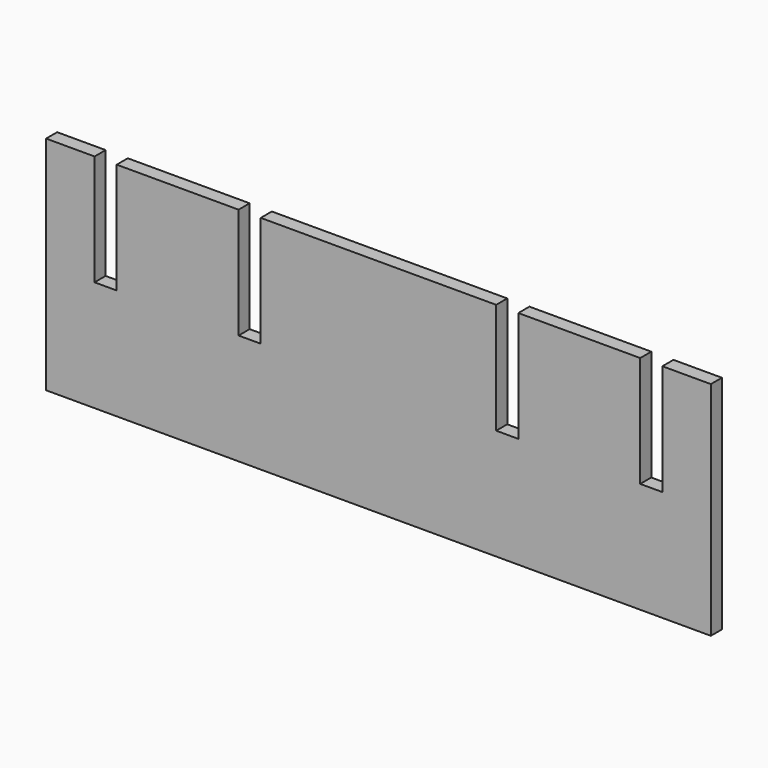
from build123d import *

# Parameters (mm, degrees)
F0_W     = 27.94
F0_H     = 25.4
F1_DEPTH = 3.175


with BuildPart() as f1:
    # F0 (on Front) → F1 (new body)
    with BuildSketch(Plane.XZ):
        with Locations((-46.0375, 12.7)):
            Rectangle(F0_W, F0_H)
        with Locations((46.0375, 12.7)):
            Rectangle(F0_W, F0_H)
        Polygon((-65.0875, 0), (-65.0875, 25.4), (-76.2, 25.4), (-76.2, -25.4), (76.2, -25.4), (76.2, 25.4), (65.0875, 25.4), (65.0875, 0), (60.0075, 0), (32.0675, 0), (26.9875, 0), (26.9875, 25.4), (-26.9875, 25.4), (-26.9875, 0), (-32.0675, 0), (-60.0075, 0), align=None)
    extrude(amount=F1_DEPTH)


solid = f1.part
